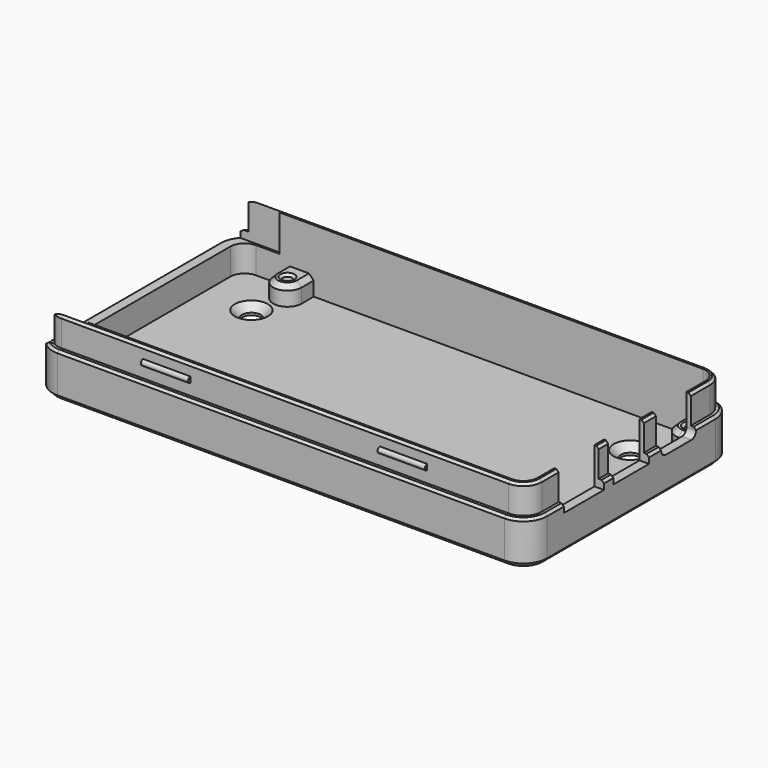
from build123d import *

# Parameters (mm, degrees)
PAD003_DEPTH                  = 15.3
PAD003_MIRRORED005_2_DEPTH    = 15.3
PAD004_DEPTH                  = 2
PAD004_MIRRORED007_2_DEPTH    = 2
SKETCH006_R                   = 1
PAD005_DEPTH                  = 4
POCKET001_DEPTH               = 6
POCKET001_MIRRORED012_2_DEPTH = 6
PAD008_DEPTH                  = 30
POCKET002_DEPTH               = 20
CHAMFER_SIZE                  = 1
CHAMFER001_SIZE               = 1
CHAMFER002_SIZE               = 0.5
CHAMFER003_SIZE               = 0.5
CHAMFER004_SIZE               = 0.5
POCKET019_DEPTH               = 5
SKETCH015_W                   = 9.4
SKETCH015_H                   = 50
POCKET020_DEPTH               = 5
POCKET021_DEPTH               = 10
POCKET022_DEPTH               = 10
POCKET023_DEPTH               = 10
POCKET024_DEPTH               = 10
POCKET025_DEPTH               = 10
POCKET026_DEPTH               = 10
SKETCH007_R                   = 2
POCKET027_DEPTH               = 5
CHAMFER016_SIZE               = 1.5


with BuildPart() as part:
    # Sketch004 → Pad003 (new body)
    with BuildSketch(Plane.XY):
        with BuildLine():
            ThreePointArc((-47.2, 25.2), (-49.32132, 24.32132), (-50.2, 22.2))
            Line((-50.2, 22.2), (-50.2, 0))
            Line((-52.2, 0), (-50.2, 0))
            Line((-52.2, 22.2), (-52.2, 0))
            ThreePointArc((-47.2, 27.2), (-50.735534, 25.735534), (-52.2, 22.2))
            Line((-47.2, 27.2), (0, 27.2))
            Line((0, 27.2), (0, 25.2))
            Line((-47.2, 25.2), (0, 25.2))
        make_face()
    pad003 = extrude(amount=PAD003_DEPTH)

    # Sketch004 Mirrored005 2 → Pad003 Mirrored005 2 (add)
    with BuildSketch(Plane(origin=(0, 0, 0), x_dir=(-1, 0, 0), z_dir=(0, 0, -1))):
        with BuildLine():
            ThreePointArc((-47.2, 25.2), (-49.32132, 24.32132), (-50.2, 22.2))
            Line((-50.2, 22.2), (-50.2, 0))
            Line((-52.2, 0), (-50.2, 0))
            Line((-52.2, 22.2), (-52.2, 0))
            ThreePointArc((-47.2, 27.2), (-50.735534, 25.735534), (-52.2, 22.2))
            Line((-47.2, 27.2), (0, 27.2))
            Line((0, 27.2), (0, 25.2))
            Line((-47.2, 25.2), (0, 25.2))
        make_face()
    pad003_mirrored005_2 = extrude(amount=-PAD003_MIRRORED005_2_DEPTH)

    # Mirrored006: Pad003, Pad003 Mirrored005 2 across Sketch004 H_Axis
    add(pad003.mirror(Plane.ZX))
    add(pad003_mirrored005_2.mirror(Plane.ZX))

    # Sketch005 → Pad004 (join)
    with BuildSketch(Plane.XY):
        with BuildLine():
            ThreePointArc((-47.2, 25.2), (-49.32132, 24.32132), (-50.2, 22.2))
            Line((-50.2, 22.2), (-50.2, 0))
            Line((-50.2, 0), (0, 0))
            Line((0, 0), (0, 25.2))
            Line((-47.2, 25.2), (0, 25.2))
        make_face()
    pad004 = extrude(amount=PAD004_DEPTH)

    # Sketch005 Mirrored007 2 → Pad004 Mirrored007 2 (add)
    with BuildSketch(Plane(origin=(0, 0, 0), x_dir=(-1, 0, 0), z_dir=(0, 0, -1))):
        with BuildLine():
            ThreePointArc((-47.2, 25.2), (-49.32132, 24.32132), (-50.2, 22.2))
            Line((-50.2, 22.2), (-50.2, 0))
            Line((-50.2, 0), (0, 0))
            Line((0, 0), (0, 25.2))
            Line((-47.2, 25.2), (0, 25.2))
        make_face()
    pad004_mirrored007_2 = extrude(amount=-PAD004_MIRRORED007_2_DEPTH)

    # Mirrored008: Pad004, Pad004 Mirrored007 2 across Sketch005 H_Axis
    add(pad004.mirror(Plane.ZX))
    add(pad004_mirrored007_2.mirror(Plane.ZX))

    # Sketch006 (on Face19 of MultiTransform003) → Pad005 (join)
    with BuildSketch(Plane.XY.offset(2)):
        with BuildLine():
            ThreePointArc((50.2, 22.2), (49.32132, 24.32132), (47.2, 25.2))
            Line((47.2, 25.2), (44, 25.2))
            Line((44, 22), (44, 25.2))
            ThreePointArc((44, 22), (44.87868, 19.87868), (47, 19))
            Line((47, 19), (50.2, 19))
            Line((50.2, 22.2), (50.2, 19))
        make_face()
        with Locations((47, 22)):
            Circle(SKETCH006_R, mode=Mode.SUBTRACT)
        with BuildLine():
            ThreePointArc((-41, 22), (-38, 19), (-35, 22))
            Line((-35, 22), (-35, 25.2))
            Line((-41, 25.2), (-35, 25.2))
            Line((-41, 22), (-41, 25.2))
        make_face()
        with Locations((-38, 22)):
            Circle(SKETCH006_R, mode=Mode.SUBTRACT)
    pad005 = extrude(amount=PAD005_DEPTH)

    # Mirrored009: Pad005 across Sketch006 H_Axis
    add(pad005.mirror(Plane(origin=(0, 0, 2), x_dir=(0, 0, 1), z_dir=(0, 1, 0))))

    # Sketch010 (on Face5 of Mirrored009) → Pocket001 (cut)
    with BuildSketch(Plane.XY.offset(15.3)):
        with BuildLine():
            ThreePointArc((-47.2, 27.2), (-50.735534, 25.735534), (-52.2, 22.2))
            Line((-52.2, 0), (-52.2, 22.2))
            Line((-51.1, 0), (-52.2, 0))
            Line((-51.1, 22.2), (-51.1, 0))
            ThreePointArc((-47.2, 26.1), (-49.957716, 24.957716), (-51.1, 22.2))
            Line((0, 26.1), (-47.2, 26.1))
            Line((0, 27.2), (0, 26.1))
            Line((-47.2, 27.2), (0, 27.2))
        make_face()
    pocket001 = extrude(amount=-POCKET001_DEPTH, mode=Mode.SUBTRACT)

    # Sketch010 Mirrored012 2 → Pocket001 Mirrored012 2 (cut)
    with BuildSketch(Plane(origin=(0, 0, 15.3), x_dir=(-1, 0, 0), z_dir=(0, 0, -1))):
        with BuildLine():
            ThreePointArc((-47.2, 27.2), (-50.735534, 25.735534), (-52.2, 22.2))
            Line((-52.2, 0), (-52.2, 22.2))
            Line((-51.1, 0), (-52.2, 0))
            Line((-51.1, 22.2), (-51.1, 0))
            ThreePointArc((-47.2, 26.1), (-49.957716, 24.957716), (-51.1, 22.2))
            Line((0, 26.1), (-47.2, 26.1))
            Line((0, 27.2), (0, 26.1))
            Line((-47.2, 27.2), (0, 27.2))
        make_face()
    pocket001_mirrored012_2 = extrude(amount=POCKET001_MIRRORED012_2_DEPTH, mode=Mode.SUBTRACT)

    # Mirrored013: Pocket001, Pocket001 Mirrored012 2 across Sketch010 H_Axis
    add(pocket001.mirror(Plane(origin=(0, 0, 15.3), x_dir=(0, 0, 1), z_dir=(0, 1, 0))), mode=Mode.SUBTRACT)
    add(pocket001_mirrored012_2.mirror(Plane(origin=(0, 0, 15.3), x_dir=(0, 0, 1), z_dir=(0, 1, 0))), mode=Mode.SUBTRACT)

    # Sketch012 → Pad008 (join, symmetric)
    with BuildSketch(Plane.YZ):
        with BuildLine():
            ThreePointArc((-26.1, 12.9), (-26.7, 12.3), (-26.1, 11.7))
            Line((-26.1, 12.9), (-26.1, 11.7))
        make_face()
    pad008 = extrude(amount=PAD008_DEPTH, both=True)

    # Sketch012 → Pocket002 (cut, symmetric)
    with BuildSketch(Plane.YZ):
        with BuildLine():
            ThreePointArc((-26.1, 12.9), (-26.7, 12.3), (-26.1, 11.7))
            Line((-26.1, 12.9), (-26.1, 11.7))
        make_face()
    pocket002 = extrude(amount=POCKET002_DEPTH, both=True, mode=Mode.SUBTRACT)

    # Mirrored016: Pad008, Pocket002 across Sketch012 V_Axis
    add(pad008.mirror(Plane(origin=(0, 0, 0), x_dir=(1, 0, 0), z_dir=(0, 1, 0))))
    add(pocket002.mirror(Plane(origin=(0, 0, 0), x_dir=(1, 0, 0), z_dir=(0, 1, 0))), mode=Mode.SUBTRACT)

    # Chamfer
    chamfer_edges = [part.edges().sort_by_distance(p)[0] for p in [
        (0, -27.2, 0),
    ]]
    chamfer(chamfer_edges, length=CHAMFER_SIZE)

    # Chamfer001
    chamfer001_edges = [part.edges().sort_by_distance(p)[0] for p in [
        (-35, 23.6, 6),
        (-35, -23.6, 6),
        (44, -23.6, 6),
        (44, 23.6, 6),
    ]]
    chamfer(chamfer001_edges, length=CHAMFER001_SIZE)

    # Chamfer002
    chamfer002_edges = [part.edges().sort_by_distance(p)[0] for p in [
        (-39, 22, 6),
        (46, 22, 6),
        (-39, -22, 6),
        (46, -22, 6),
    ]]
    chamfer(chamfer002_edges, length=CHAMFER002_SIZE)

    # Chamfer003
    chamfer003_edges = [part.edges().sort_by_distance(p)[0] for p in [
        (0, -26.1, 15.3),
    ]]
    chamfer(chamfer003_edges, length=CHAMFER003_SIZE)

    # Chamfer004
    chamfer004_edges = [part.edges().sort_by_distance(p)[0] for p in [
        (-23.6, -27.2, 9.3),
    ]]
    chamfer(chamfer004_edges, length=CHAMFER004_SIZE)

    # Sketch014 (on DatumPlane) → Pocket019 (cut)
    with BuildSketch(Plane.YZ.offset(52.2)):
        with BuildLine():
            ThreePointArc((7.9, 8.75), (8.266117, 7.866117), (9.15, 7.5))
            Line((9.15, 7.5), (15.85, 7.5))
            ThreePointArc((15.85, 7.5), (16.733883, 7.866117), (17.1, 8.75))
            Line((17.1, 8.75), (17.1, 58.75))
            Line((7.9, 58.75), (17.1, 58.75))
            Line((7.9, 8.75), (7.9, 58.75))
        make_face()
    extrude(amount=-POCKET019_DEPTH, mode=Mode.SUBTRACT)

    # Sketch015 (on DatumPlane) → Pocket020 (cut)
    with BuildSketch(Plane.YZ.offset(52.2)):
        with Locations((0, 32.6)):
            Rectangle(SKETCH015_W, SKETCH015_H)
    extrude(amount=-POCKET020_DEPTH, mode=Mode.SUBTRACT)

    # Sketch016 (on DatumPlane) → Pocket021 (cut)
    with BuildSketch(Plane.YZ.offset(52.2)):
        Polygon((-17.8, 7.6), (-7.2, 7.6), (-7.2, 15.6), (-12.1, 15.6), (-12.1, 18.1), (-14.1, 18.1), (-14.1, 15.6), (-17.8, 15.6), align=None)
    extrude(amount=-POCKET021_DEPTH, mode=Mode.SUBTRACT)

    # Sketch021 (on DatumPlane) → Pocket022 (cut)
    with BuildSketch(Plane(origin=(-52.2, 0, 0), x_dir=(0, -1, 0), z_dir=(-1, 0, 0))):
        Polygon((-25.62, 7.6), (-15.02, 7.6), (-15.02, 15.6), (-19.92, 15.6), (-19.92, 18.1), (-21.92, 18.1), (-21.92, 15.6), (-25.62, 15.6), align=None)
    extrude(amount=-POCKET022_DEPTH, mode=Mode.SUBTRACT)

    # Sketch022 (on DatumPlane) → Pocket023 (cut)
    with BuildSketch(Plane(origin=(-52.2, 0, 0), x_dir=(0, -1, 0), z_dir=(-1, 0, 0))):
        Polygon((-15.46, 7.6), (-4.86, 7.6), (-4.86, 15.6), (-9.76, 15.6), (-9.76, 18.1), (-11.76, 18.1), (-11.76, 15.6), (-15.46, 15.6), align=None)
    extrude(amount=-POCKET023_DEPTH, mode=Mode.SUBTRACT)

    # Sketch020 (on DatumPlane) → Pocket024 (cut)
    with BuildSketch(Plane(origin=(-52.2, 0, 0), x_dir=(0, -1, 0), z_dir=(-1, 0, 0))):
        Polygon((-5.3, 7.6), (5.3, 7.6), (5.3, 15.6), (0, 15.6), (0, 18.1), (-2, 18.1), (-2, 15.6), (-5.3, 15.6), align=None)
    extrude(amount=-POCKET024_DEPTH, mode=Mode.SUBTRACT)

    # Sketch023 (on DatumPlane) → Pocket025 (cut)
    with BuildSketch(Plane(origin=(-52.2, 0, 0), x_dir=(0, -1, 0), z_dir=(-1, 0, 0))):
        Polygon((4.86, 7.6), (15.46, 7.6), (15.46, 15.6), (10.56, 15.6), (10.56, 18.1), (8.56, 18.1), (8.56, 15.6), (4.86, 15.6), align=None)
    extrude(amount=-POCKET025_DEPTH, mode=Mode.SUBTRACT)

    # Sketch024 (on DatumPlane) → Pocket026 (cut)
    with BuildSketch(Plane(origin=(-52.2, 0, 0), x_dir=(0, -1, 0), z_dir=(-1, 0, 0))):
        Polygon((15.02, 7.6), (25.62, 7.6), (25.62, 15.6), (20.72, 15.6), (20.72, 18.1), (18.72, 18.1), (18.72, 15.6), (15.02, 15.6), align=None)
    extrude(amount=-POCKET026_DEPTH, mode=Mode.SUBTRACT)

    # Sketch007 (on DatumPlane) → Pocket027 (cut)
    with BuildSketch(Plane.XY.offset(2)):
        with Locations((-40, 15)):
            Circle(SKETCH007_R)
        with Locations((40, 15)):
            Circle(SKETCH007_R)
        with Locations((40, -15)):
            Circle(SKETCH007_R)
        with Locations((-40, -15)):
            Circle(SKETCH007_R)
    extrude(amount=-POCKET027_DEPTH, mode=Mode.SUBTRACT)

    # Chamfer016
    chamfer016_edges = [part.edges().sort_by_distance(p)[0] for p in [
        (-42, 15, 2),
        (38, 15, 2),
        (38, -15, 2),
        (-42, -15, 2),
    ]]
    chamfer(chamfer016_edges, length=CHAMFER016_SIZE)


solid = part.part
